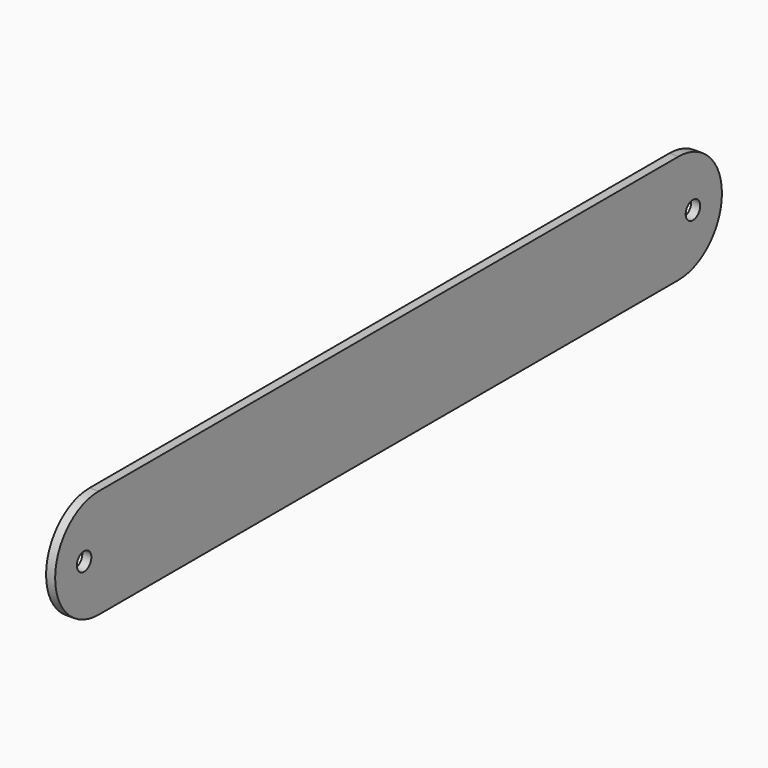
from build123d import *

# Parameters (mm, degrees)
F0_W     = 254
F0_H     = 38.1
F0_R     = 3.175
F1_DEPTH = 3.175


with BuildPart() as f1:
    # F0 (on Right) → F1 (new body)
    with BuildSketch(Plane.YZ):
        Rectangle(F0_W, F0_H)
        with BuildLine():
            ThreePointArc((127, -19.05), (146.05, 0), (127, 19.05))
            Line((127, 19.05), (127, -19.05))
        make_face()
        with Locations((133.35, 0)):
            Circle(F0_R, mode=Mode.SUBTRACT)
        with BuildLine():
            Line((-127, -19.05), (-127, 19.05))
            ThreePointArc((-127, 19.05), (-146.05, 0), (-127, -19.05))
        make_face()
        with Locations((-133.35, 0)):
            Circle(F0_R, mode=Mode.SUBTRACT)
    extrude(amount=F1_DEPTH)


solid = f1.part
